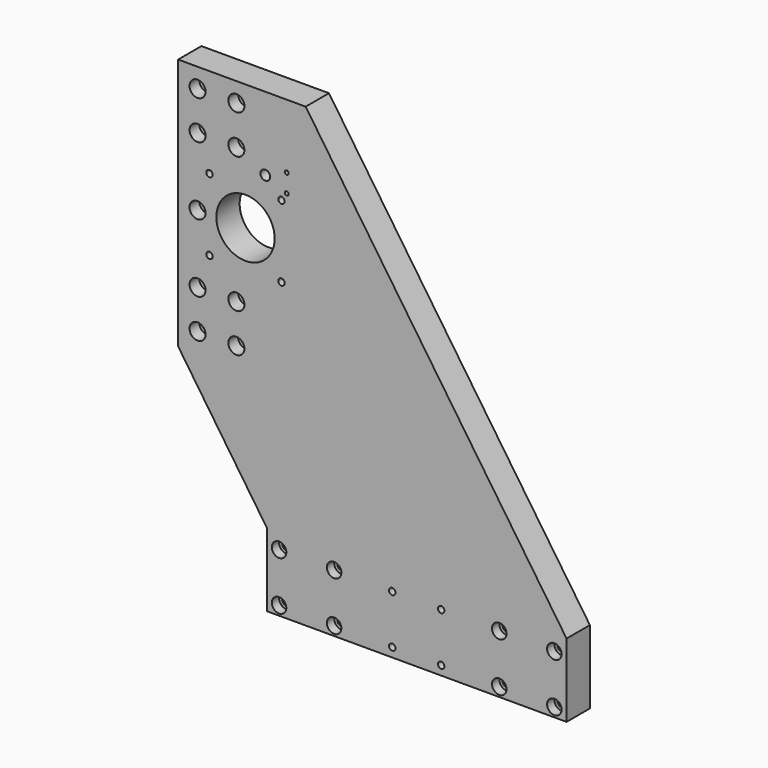
from build123d import *

# Parameters (mm, degrees)
SKETCH_R            = 2.75
SKETCH_R_2          = 3.2
PAD_DEPTH           = 19.05
HOLE_D              = 6.4
HOLE_CBORE_D        = 10.5
HOLE_CBORE_DEPTH    = 8
HOLE001_D           = 5.5
HOLE001_CBORE_D     = 9.5
HOLE001_CBORE_DEPTH = 6
SKETCH005_R         = 19.05
SKETCH005_R_2       = 2.1
POCKET_DEPTH        = 19.051
HOLE005_D           = 6.4
HOLE005_CBORE_D     = 10.5
HOLE005_CBORE_DEPTH = 8
SKETCH022_R         = 2.1
POCKET010_DEPTH     = 19.051
SKETCH027_R         = 2.5
POCKET013_DEPTH     = 20
SKETCH028_R         = 1.25
SKETCH028_R_2       = 3.2
POCKET014_DEPTH     = 19.051


with BuildPart() as part:
    # Sketch → Pad (new body)
    with BuildSketch(Plane.XZ):
        Polygon((-84, 276.7), (-84, 111.6), (-26, 26), (-26, -22), (170, -22), (170, 26), (-0.6, 276.7), align=None)
        with Locations((-18, 16)):
            Circle(SKETCH_R, mode=Mode.SUBTRACT)
        with Locations((18, 16)):
            Circle(SKETCH_R, mode=Mode.SUBTRACT)
        with Locations((-18, -16)):
            Circle(SKETCH_R, mode=Mode.SUBTRACT)
        with Locations((18, -16)):
            Circle(SKETCH_R, mode=Mode.SUBTRACT)
        with Locations((126, 16)):
            Circle(SKETCH_R, mode=Mode.SUBTRACT)
        with Locations((162, 16)):
            Circle(SKETCH_R, mode=Mode.SUBTRACT)
        with Locations((126, -16)):
            Circle(SKETCH_R, mode=Mode.SUBTRACT)
        with Locations((162, -16)):
            Circle(SKETCH_R, mode=Mode.SUBTRACT)
        with Locations((-71.3, 124.3)):
            Circle(SKETCH_R_2, mode=Mode.SUBTRACT)
        with Locations((-45.9, 124.3)):
            Circle(SKETCH_R_2, mode=Mode.SUBTRACT)
        with Locations((-71.3, 149.7)):
            Circle(SKETCH_R_2, mode=Mode.SUBTRACT)
        with Locations((-45.9, 149.7)):
            Circle(SKETCH_R_2, mode=Mode.SUBTRACT)
        with Locations((-71.3, 238.6)):
            Circle(SKETCH_R_2, mode=Mode.SUBTRACT)
        with Locations((-45.9, 238.6)):
            Circle(SKETCH_R_2, mode=Mode.SUBTRACT)
        with Locations((-71.3, 264)):
            Circle(SKETCH_R_2, mode=Mode.SUBTRACT)
        with Locations((-45.9, 264)):
            Circle(SKETCH_R_2, mode=Mode.SUBTRACT)
    extrude(amount=-PAD_DEPTH)

    # Hole (through all)
    with Locations(Plane.XZ):
        with Locations((-71.3, 264), (-45.9, 264), (-45.9, 238.6), (-71.3, 238.6), (-71.3, 149.7), (-45.9, 149.7), (-45.9, 124.3), (-71.3, 124.3)):
            CounterBoreHole(HOLE_D / 2, HOLE_CBORE_D / 2, HOLE_CBORE_DEPTH)

    # Hole001 (through all)
    with Locations(Plane.XZ):
        with Locations((-18, 16), (18, 16), (-18, -16), (18, -16), (126, 16), (162, 16), (126, -16), (162, -16)):
            CounterBoreHole(HOLE001_D / 2, HOLE001_CBORE_D / 2, HOLE001_CBORE_DEPTH)

    # Sketch005 (on Face4 of Hole001) → Pocket (cut, through all)
    with BuildSketch(Plane.XZ):
        with Locations((-39.95, 194.15)):
            Circle(SKETCH005_R)
        with Locations((-63.5, 217.7)):
            Circle(SKETCH005_R_2)
        with Locations((-16.4, 217.7)):
            Circle(SKETCH005_R_2)
        with Locations((-63.5, 170.6)):
            Circle(SKETCH005_R_2)
        with Locations((-16.4, 170.6)):
            Circle(SKETCH005_R_2)
    extrude(amount=-POCKET_DEPTH, mode=Mode.SUBTRACT)

    # Hole005 (through all)
    with Locations(Plane.XZ):
        with Locations((-71.3, 194.15)):
            CounterBoreHole(HOLE005_D / 2, HOLE005_CBORE_D / 2, HOLE005_CBORE_DEPTH)

    # Sketch022 (on Face4 of Hole005) → Pocket010 (cut, through all)
    with BuildSketch(Plane.XZ):
        with Locations((56, 16)):
            Circle(SKETCH022_R)
        with Locations((56, -16)):
            Circle(SKETCH022_R)
        with Locations((88, 16)):
            Circle(SKETCH022_R)
        with Locations((88, -16)):
            Circle(SKETCH022_R)
    extrude(amount=-POCKET010_DEPTH, mode=Mode.SUBTRACT)

    # Sketch027 (on Face7 of Pocket010) → Pocket013 (cut)
    with BuildSketch(Plane(origin=(-26, 0, 0), x_dir=(0, 0, -1), z_dir=(-1, 0, 0))):
        with Locations((0, -9.525)):
            Circle(SKETCH027_R)
    extrude(amount=-POCKET013_DEPTH, mode=Mode.SUBTRACT)

    # Sketch028 (on Face5 of Pocket013) → Pocket014 (cut, through all)
    with BuildSketch(Plane(origin=(0, 19.05, 0), x_dir=(1, 0, 0), z_dir=(0, 1, 0))):
        with Locations((-13, -234.7)):
            Circle(SKETCH028_R)
        with Locations((-13, -222.7)):
            Circle(SKETCH028_R)
        with Locations((-27, -228.7)):
            Circle(SKETCH028_R_2)
    extrude(amount=-POCKET014_DEPTH, mode=Mode.SUBTRACT)


with BuildPart() as part_1:
    # Body placement: moved
    add(part.part.moved(Location((0, -256, 0))))


solid = part_1.part
